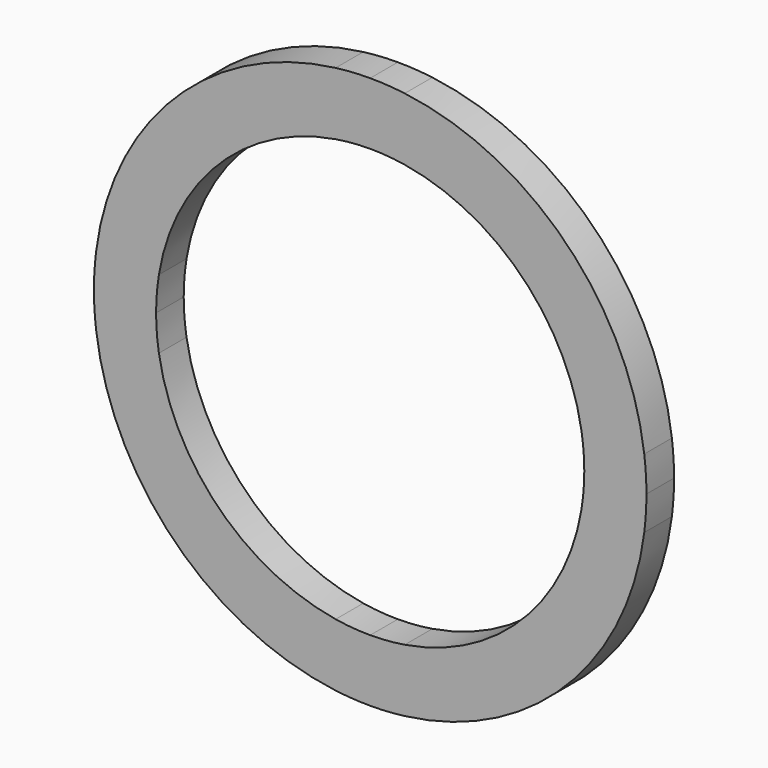
from build123d import *

# Parameters (mm, degrees)
F1_DEPTH = 5


with BuildPart() as f1:
    # F0 (on Front) → F1 (new body)
    with BuildSketch(Plane.XZ):
        with BuildLine():
            Line((31, 0), (40, 0))
            ThreePointArc((40, 0), (39.92149, 2.504916), (39.68627, 5))
            Line((39.68627, 5), (30.594117, 5))
            ThreePointArc((30.594117, 5), (30.898363, 2.508223), (31, 0))
        make_face()
        with BuildLine():
            ThreePointArc((39.68627, -5), (39.92149, -2.504917), (40, 0))
            Line((40, 0), (31, 0))
            ThreePointArc((31, 0), (30.898363, -2.508224), (30.594117, -5))
            Line((30.594117, -5), (39.68627, -5))
        make_face()
        with BuildLine():
            Line((30.594117, 5), (39.68627, 5))
            ThreePointArc((39.68627, 5), (28.284271, 28.284271), (5, 39.68627))
            Line((5, 39.68627), (5, 30.594117))
            ThreePointArc((5, 30.594117), (21.92031, 21.92031), (30.594117, 5))
        make_face()
        with BuildLine():
            ThreePointArc((5, -39.68627), (28.284271, -28.284271), (39.68627, -5))
            Line((39.68627, -5), (30.594117, -5))
            ThreePointArc((30.594117, -5), (21.92031, -21.92031), (5, -30.594117))
            Line((5, -30.594117), (5, -39.68627))
        make_face()
        with BuildLine():
            Line((5, 30.594117), (5, 39.68627))
            ThreePointArc((5, 39.68627), (2.504916, 39.92149), (0, 40))
            Line((0, 40), (0, 31))
            ThreePointArc((0, 31), (2.508223, 30.898363), (5, 30.594117))
        make_face()
        with BuildLine():
            ThreePointArc((0, -40), (2.504916, -39.92149), (5, -39.68627))
            Line((5, -39.68627), (5, -30.594117))
            ThreePointArc((5, -30.594117), (2.508223, -30.898363), (0, -31))
            Line((0, -31), (0, -40))
        make_face()
        with BuildLine():
            Line((0, 31), (0, 40))
            ThreePointArc((0, 40), (-2.504916, 39.92149), (-5, 39.68627))
            Line((-5, 39.68627), (-5, 30.594117))
            ThreePointArc((-5, 30.594117), (-2.508223, 30.898363), (0, 31))
        make_face()
        with BuildLine():
            ThreePointArc((-5, -39.68627), (-2.504917, -39.92149), (0, -40))
            Line((0, -40), (0, -31))
            ThreePointArc((0, -31), (-2.508224, -30.898363), (-5, -30.594117))
            Line((-5, -30.594117), (-5, -39.68627))
        make_face()
        with BuildLine():
            Line((-5, 30.594117), (-5, 39.68627))
            ThreePointArc((-5, 39.68627), (-28.284271, 28.284271), (-39.68627, 5))
            Line((-39.68627, 5), (-30.594117, 5))
            ThreePointArc((-30.594117, 5), (-21.92031, 21.92031), (-5, 30.594117))
        make_face()
        with BuildLine():
            ThreePointArc((-39.68627, -5), (-28.284271, -28.284271), (-5, -39.68627))
            Line((-5, -39.68627), (-5, -30.594117))
            ThreePointArc((-5, -30.594117), (-21.92031, -21.92031), (-30.594117, -5))
            Line((-30.594117, -5), (-39.68627, -5))
        make_face()
        with BuildLine():
            Line((-30.594117, 5), (-39.68627, 5))
            ThreePointArc((-39.68627, 5), (-39.92149, 2.504917), (-40, 0))
            Line((-40, 0), (-31, 0))
            ThreePointArc((-31, 0), (-30.898363, 2.508224), (-30.594117, 5))
        make_face()
        with BuildLine():
            ThreePointArc((-40, 0), (-39.92149, -2.504916), (-39.68627, -5))
            Line((-39.68627, -5), (-30.594117, -5))
            ThreePointArc((-30.594117, -5), (-30.898363, -2.508223), (-31, 0))
            Line((-31, 0), (-40, 0))
        make_face()
    extrude(amount=F1_DEPTH)


solid = f1.part
